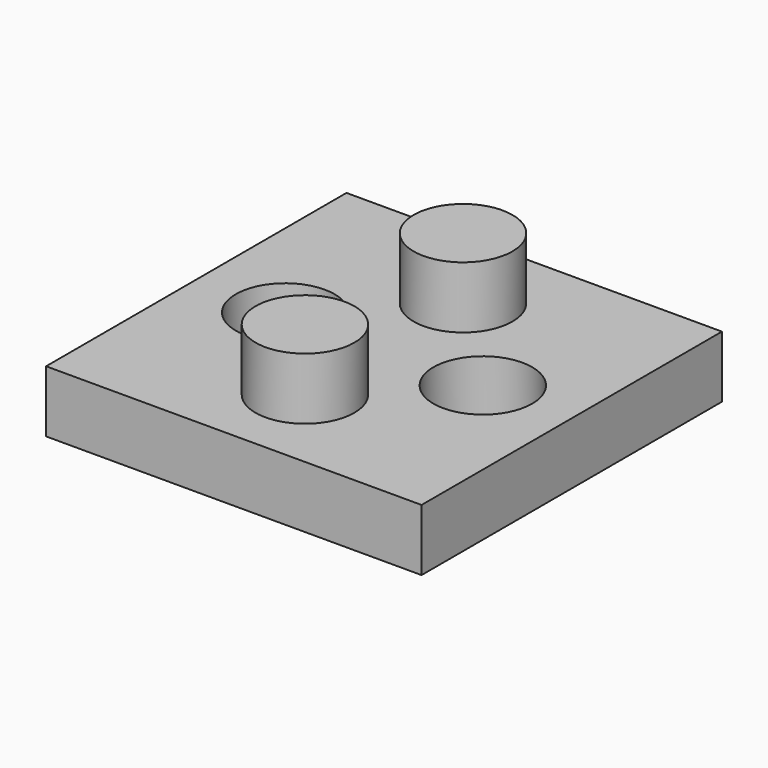
from build123d import *

# Parameters (mm, degrees)
F0_W     = 19.304
F0_H     = 19.304
F1_DEPTH = 6.35
F2_W     = 19.304
F2_H     = 19.304
F2_R     = 2.54
F3_DEPTH = 3.175
F4_R     = 2.54
F5_DEPTH = 3.175


with BuildPart() as f1:
    # F0 (on Top) → F1 (new body)
    with BuildSketch(Plane.XY):
        Rectangle(F0_W, F0_H)
    extrude(amount=F1_DEPTH)

    # F2 (on face) → F3 (cut)
    with BuildSketch(Plane.XY.offset(6.35)):
        Rectangle(F2_W, F2_H)
        with Locations((0, -5.08)):
            Circle(F2_R, mode=Mode.SUBTRACT)
        with Locations((0, 5.08)):
            Circle(F2_R, mode=Mode.SUBTRACT)
    extrude(amount=-F3_DEPTH, mode=Mode.SUBTRACT)

    # F4 (on face) → F5 (cut)
    with BuildSketch(Plane.XY.offset(3.175)):
        with Locations((5.08, 0)):
            Circle(F4_R)
        with Locations((-5.08, 0)):
            Circle(F4_R)
    extrude(amount=-F5_DEPTH, mode=Mode.SUBTRACT)


solid = f1.part
